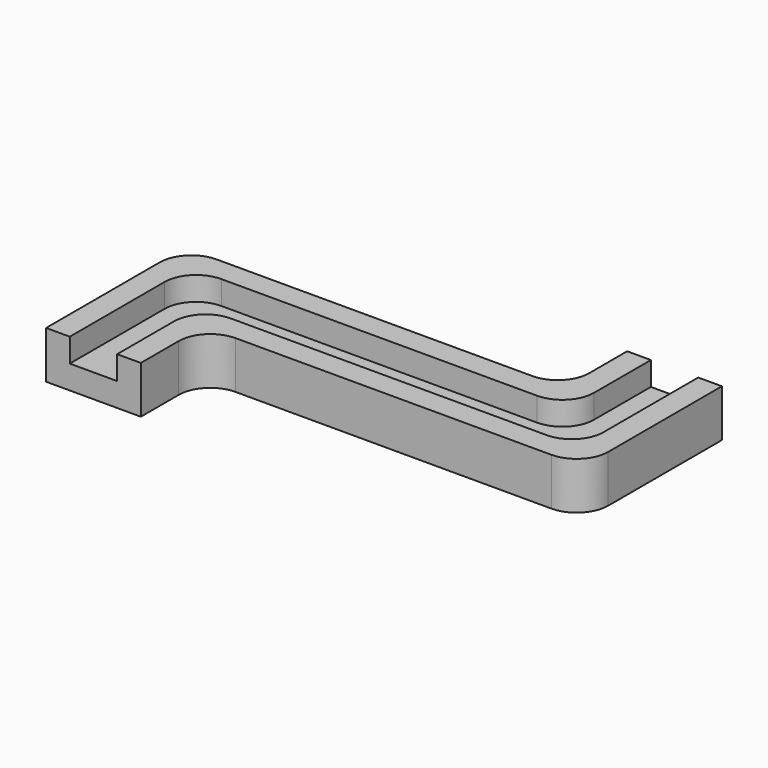
from build123d import *

# Parameters (mm, degrees)
F3_R = 25.4


with BuildPart() as f2:
    # F2: sweep along a path in F1
    with BuildLine(Plane.XY) as f2_path:
        Line((0, 0), (0, 101.6))
        Line((0, 101.6), (304.8, 101.6))
        Line((304.8, 101.6), (304.8, 203.2))
    # F0 (on Front) → F2 (sweep)
    with BuildSketch(Plane.XZ):
        Polygon((-19.05, 19.05), (-38.1, 19.05), (-38.1, -19.05), (38.1, -19.05), (38.1, 19.05), (19.05, 19.05), (19.05, 0), (-19.05, 0), align=None)
    sweep(path=f2_path.line, transition=Transition.RIGHT)

    # F3
    f3_edges = [f2.edges().sort_by_distance(p)[0] for p in [
        (342.9, 63.5, 0),
        (38.1, 63.5, 0),
        (-38.1, 139.7, 0),
        (266.7, 139.7, 0),
        (-19.05, 120.65, 9.525),
        (285.75, 120.65, 9.525),
        (19.05, 82.55, 9.525),
        (323.85, 82.55, 9.525),
    ]]
    fillet(f3_edges, radius=F3_R)


solid = f2.part
